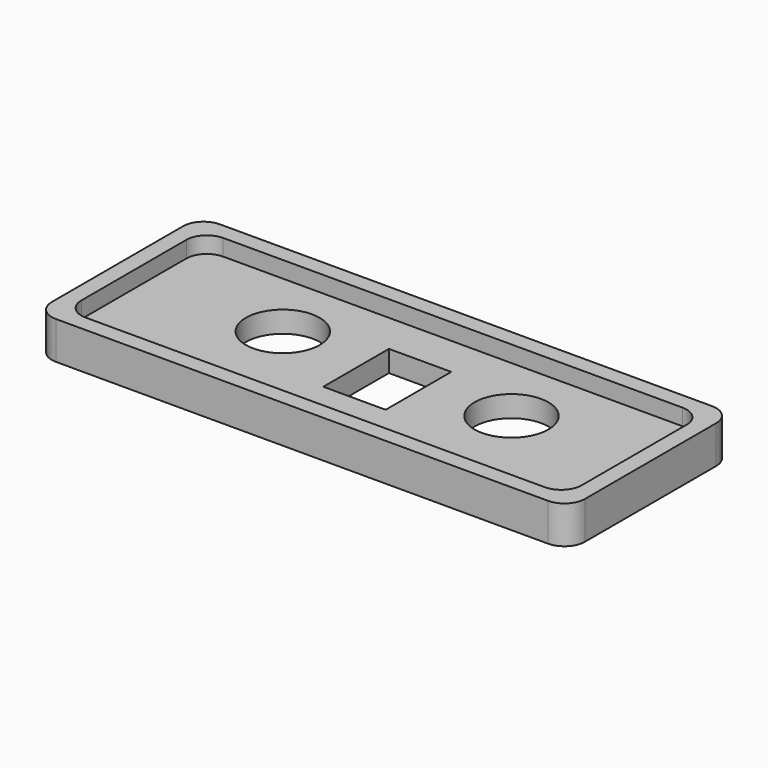
from build123d import *

# Parameters (mm, degrees)
F1_DEPTH = 3.302
F2_DEPTH = 2.54
F3_R     = 5.715
F3_W     = 9.652
F3_H     = 4.445
F3_H_2   = 8.255
F4_DEPTH = 3.303


with BuildPart() as f1:
    # F0 (on Top) → F1 (new body)
    with BuildSketch(Plane.XY):
        with BuildLine():
            Line((86.51892, -3.862933), (10.31892, -3.862933))
            ThreePointArc((10.31892, -3.862933), (8.073856, -4.792869), (7.14392, -7.037933))
            Line((7.14392, -7.037933), (7.14392, -32.437933))
            ThreePointArc((7.14392, -32.437933), (8.073856, -34.682997), (10.31892, -35.612933))
            Line((10.31892, -35.612933), (86.51892, -35.612933))
            ThreePointArc((86.51892, -35.612933), (88.763984, -34.682997), (89.69392, -32.437933))
            Line((89.69392, -32.437933), (89.69392, -7.037933))
            ThreePointArc((89.69392, -7.037933), (88.763984, -4.792869), (86.51892, -3.862933))
        make_face()
        with BuildLine():
            Line((83.97892, -33.072933), (12.85892, -33.072933))
            ThreePointArc((12.85892, -33.072933), (10.613856, -32.142997), (9.68392, -29.897933))
            Line((9.68392, -29.897933), (9.68392, -9.577933))
            ThreePointArc((9.68392, -9.577933), (10.613856, -7.332869), (12.85892, -6.402933))
            Line((12.85892, -6.402933), (83.97892, -6.402933))
            ThreePointArc((83.97892, -6.402933), (86.223984, -7.332869), (87.15392, -9.577933))
            Line((87.15392, -9.577933), (87.15392, -29.897933))
            ThreePointArc((87.15392, -29.897933), (86.223984, -32.142997), (83.97892, -33.072933))
        make_face(mode=Mode.SUBTRACT)
        with BuildLine():
            ThreePointArc((9.68392, -29.897933), (10.613856, -32.142997), (12.85892, -33.072933))
            Line((12.85892, -33.072933), (83.97892, -33.072933))
            ThreePointArc((83.97892, -33.072933), (86.223984, -32.142997), (87.15392, -29.897933))
            Line((87.15392, -29.897933), (87.15392, -9.577933))
            ThreePointArc((87.15392, -9.577933), (86.223984, -7.332869), (83.97892, -6.402933))
            Line((83.97892, -6.402933), (12.85892, -6.402933))
            ThreePointArc((12.85892, -6.402933), (10.613856, -7.332869), (9.68392, -9.577933))
            Line((9.68392, -9.577933), (9.68392, -29.897933))
        make_face()
    extrude(amount=-F1_DEPTH)

    # F0 (on Top) → F2 (join)
    with BuildSketch(Plane.XY):
        with BuildLine():
            Line((86.51892, -3.862933), (10.31892, -3.862933))
            ThreePointArc((10.31892, -3.862933), (8.073856, -4.792869), (7.14392, -7.037933))
            Line((7.14392, -7.037933), (7.14392, -32.437933))
            ThreePointArc((7.14392, -32.437933), (8.073856, -34.682997), (10.31892, -35.612933))
            Line((10.31892, -35.612933), (86.51892, -35.612933))
            ThreePointArc((86.51892, -35.612933), (88.763984, -34.682997), (89.69392, -32.437933))
            Line((89.69392, -32.437933), (89.69392, -7.037933))
            ThreePointArc((89.69392, -7.037933), (88.763984, -4.792869), (86.51892, -3.862933))
        make_face()
        with BuildLine():
            Line((83.97892, -33.072933), (12.85892, -33.072933))
            ThreePointArc((12.85892, -33.072933), (10.613856, -32.142997), (9.68392, -29.897933))
            Line((9.68392, -29.897933), (9.68392, -9.577933))
            ThreePointArc((9.68392, -9.577933), (10.613856, -7.332869), (12.85892, -6.402933))
            Line((12.85892, -6.402933), (83.97892, -6.402933))
            ThreePointArc((83.97892, -6.402933), (86.223984, -7.332869), (87.15392, -9.577933))
            Line((87.15392, -9.577933), (87.15392, -29.897933))
            ThreePointArc((87.15392, -29.897933), (86.223984, -32.142997), (83.97892, -33.072933))
        make_face(mode=Mode.SUBTRACT)
    extrude(amount=F2_DEPTH)

    # F3 (on Top) → F4 (cut, through all)
    with BuildSketch(Plane.XY):
        with Locations((30.71512, -17.197933)):
            Circle(F3_R)
        with BuildLine():
            ThreePointArc((71.83772, -17.197933), (66.12272, -11.482933), (60.40772, -17.197933))
            ThreePointArc((60.40772, -17.197933), (66.12272, -22.912933), (71.83772, -17.197933))
        make_face()
        with Locations((48.41892, -14.975433)):
            Rectangle(F3_W, F3_H)
        with Locations((48.41892, -21.325433)):
            Rectangle(F3_W, F3_H_2)
    extrude(amount=-F4_DEPTH, mode=Mode.SUBTRACT)


solid = f1.part
